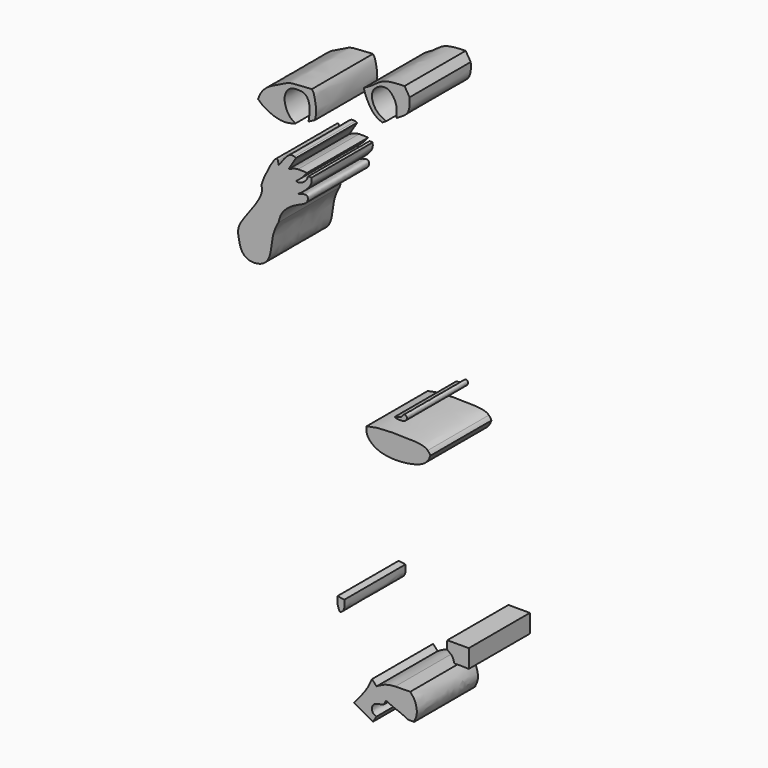
from build123d import *

# Parameters (mm, degrees)
F1_DEPTH = 13.462


with BuildPart() as f1:
    # F0 (on Front) → F1 (new body)
    with BuildSketch(Plane.XZ):
        with BuildLine():
            add(Edge.make_bspline(
                [(0.8535532979, -8.5543373227), (0.8250785768, -8.4638055758), (2.1333939515, -8.379418986), (2.321706787, -7.6001280671), (3.0690326007, -7.5686537332), (3.0415733177, -8.9948874437), (0.8903769668, -8.6714134852), (0.8535532979, -8.5543373227)],
                knots=[0, 0, 0, 0, 0.2144360216, 0.3941398724, 0.5320641402, 0.7226901353, 1, 1, 1, 1], degree=3))
        make_face()
    extrude(amount=F1_DEPTH)


with BuildPart() as f1b:
    # F0 (on Front) → F1, piece 2 (new body)
    with BuildSketch(Plane.XZ):
        with BuildLine():
            add(Edge.make_bspline(
                [(-23.2037361287, 32.9332798719), (-23.1097837538, 33.216522966), (-22.8813293458, 33.9052563101), (-21.6908833871, 35.4990168945), (-18.7522553902, 36.6968267932), (-17.7226188352, 37.4131647118), (-14.6641577636, 37.4694820328), (-13.8817665678, 37.5437084522), (-13.7255053033, 37.562127131)],
                knots=[0, 0, 0, 0, 0.1214565072, 0.2953334011, 0.5119633815, 0.6588996812, 0.8822117564, 0.9514666544, 0.9514666544, 0.9514666544, 0.9514666544], degree=3))
            add(Edge.make_bspline(
                [(-23.2037361287, 32.9332798719), (-22.8963180297, 32.6418985237), (-22.1898936882, 31.9723254643), (-20.0262829153, 30.9717587432), (-18.2369586001, 30.7959087172), (-16.9321090685, 31.1936186458), (-16.5877254898, 31.3190848318)],
                knots=[0, 0, 0, 0, 0.1807542836, 0.4153601437, 0.6603257007, 0.7438099367, 0.7438099367, 0.7438099367, 0.7438099367], degree=3))
            add(Edge.make_bspline(
                [(-16.5877254898, 31.3190848318), (-16.9145229909, 31.4850814579), (-17.6441777314, 31.8574970821), (-18.4904012818, 33.4332383033), (-18.6354322301, 35.12363189), (-17.716865953, 36.6133762608), (-16.015081242, 36.6933041368), (-14.83416972, 36.556425961), (-13.9776669993, 35.1404020734), (-14.1948435445, 32.9672171707), (-14.2863674772, 32.49507174), (-14.3260592475, 32.3392523369)],
                knots=[0, 0, 0, 0, 0.0997219176, 0.2222014618, 0.3431206346, 0.4590962942, 0.5769149755, 0.6750283174, 0.7897713324, 0.9273002069, 1, 1, 1, 1], degree=3))
            add(Edge.make_bspline(
                [(-14.3260592475, 32.3392523369), (-13.9460444572, 32.5319339006), (-13.5618593605, 32.7326068863), (-13.1776742637, 32.9332798719)],
                knots=[0.916349636, 0.916349636, 0.916349636, 0.916349636, 1, 1, 1, 1], degree=3))
            add(Edge.make_bspline(
                [(-13.1776742637, 32.9332798719), (-13.0771119235, 33.3993944543), (-12.8684747615, 34.3664549122), (-13.1686316541, 36.0271362473), (-13.365488453, 37.0466151843), (-13.6169579097, 37.4061635666), (-13.7255053033, 37.562127131)],
                knots=[0, 0, 0, 0, 0.2819086257, 0.5850503726, 0.820766888, 1, 1, 1, 1], degree=3))
        make_face()
    extrude(amount=F1_DEPTH)


with BuildPart() as f1c:
    # F0 (on Front) → F1, piece 3 (new body)
    with BuildSketch(Plane.XZ):
        with BuildLine():
            add(Edge.make_bspline(
                [(-4.5821939697, 40.7110644641), (-4.0814662281, 40.9786317463), (-2.9477729687, 41.609156211), (-1.17494517, 43.2171248058), (1.2489938554, 43.3008143114), (2.5988076228, 43.3474183083)],
                knots=[0.0451862327, 0.0451862327, 0.0451862327, 0.0451862327, 0.2911819416, 0.6052819961, 1, 1, 1, 1], degree=3))
            add(Edge.make_bspline(
                [(-4.5821939697, 40.7110644641), (-4.506634873, 40.4195509733), (-4.3139695955, 39.6689947288), (-3.0771958623, 37.1898008152), (-1.8709145031, 36.6557699769), (-1.3183970004, 36.4109911025)],
                knots=[0, 0, 0, 0, 0.2545050679, 0.6590162156, 1, 1, 1, 1], degree=3))
            add(Edge.make_bspline(
                [(-0.6535798595, 36.8203592678), (-0.8744461768, 36.6846024704), (-1.0964215886, 36.5477967864), (-1.3183970004, 36.4109911025)],
                knots=[0.9226798809, 0.9226798809, 0.9226798809, 0.9226798809, 1, 1, 1, 1], degree=3))
            add(Edge.make_bspline(
                [(1.2117554688, 37.9487096136), (1.2103402534, 38.2393319206), (1.2072179516, 38.8805326613), (1.2373448265, 40.1757687807), (-0.1366575949, 42.3640651344), (-2.3205411079, 41.7855727196), (-3.3386108542, 40.4120909876), (-2.9747412216, 38.7303907149), (-2.0741470514, 37.5039833319), (-1.1314778526, 37.0517604879), (-0.6535798595, 36.8203592678)],
                knots=[0, 0, 0, 0, 0.0952897773, 0.2103061599, 0.3609553232, 0.4994967675, 0.6252188793, 0.7519223945, 0.8744315202, 1, 1, 1, 1], degree=3))
            add(Edge.make_bspline(
                [(3.4911963157, 41.8953299522), (3.5140550279, 41.4541671197), (3.5602764514, 40.5621144998), (3.1814550729, 39.0687770569), (1.9908603194, 38.4065457913), (1.2580434285, 37.9759846176), (1.2117554688, 37.9487096136)],
                knots=[0, 0, 0, 0, 0.2082274369, 0.4210459653, 0.6811504211, 0.6985984836, 0.6985984836, 0.6985984836, 0.6985984836], degree=3))
            add(Edge.make_bspline(
                [(2.5988076228, 43.3474183083), (2.8962705205, 42.8633888563), (3.1937334181, 42.3793594042), (3.4911963157, 41.8953299522)],
                knots=[0, 0, 0, 0, 1.7043820502, 1.7043820502, 1.7043820502, 1.7043820502], degree=3))
        make_face()
    extrude(amount=F1_DEPTH)


with BuildPart() as f1d:
    # F0 (on Front) → F1, piece 4 (new body)
    with BuildSketch(Plane.XZ):
        with BuildLine():
            add(Edge.make_bspline(
                [(-22.6047635078, 19.7961851954), (-22.4382272456, 20.3439747181), (-22.0578617276, 21.5951151163), (-19.7761646606, 25.6953442767), (-19.6479114574, 24.2903518892), (-19.6032002568, 23.800548166)],
                knots=[0, 0, 0, 0, 0.3365689992, 0.7687169147, 1, 1, 1, 1], degree=3))
            add(Edge.make_bspline(
                [(-22.6047635078, 19.7961851954), (-22.5323423168, 19.4140715436), (-22.3304652577, 18.348913969), (-24.6966466125, 14.9268503549), (-26.8977231803, 12.16423138), (-26.6450535139, 10.2028767364), (-26.0351613154, 7.510523671), (-24.0276326539, 7.2421937309), (-23.2834928953, 7.3838214183)],
                knots=[0, 0, 0, 0, 0.0826462106, 0.230379723, 0.366752176, 0.4664361241, 0.5875825994, 0.6667127263, 0.6667127263, 0.6667127263, 0.6667127263], degree=3))
            add(Edge.make_bspline(
                [(-23.2834928953, 7.3838214183), (-22.7370457146, 7.4878234549), (-20.8259872618, 8.3608240397), (-20.8955535587, 12.6126467214), (-19.9950304038, 14.2654869951), (-19.6032002568, 14.9846607819)],
                knots=[0.6667127263, 0.6667127263, 0.6667127263, 0.6667127263, 0.7248206748, 0.8802656491, 1, 1, 1, 1], degree=3))
            add(Edge.make_bspline(
                [(-19.6032002568, 14.9846607819), (-19.4514744108, 15.5934589779), (-19.1102940224, 16.9624413255), (-16.8990295674, 18.5982135071), (-15.4063722859, 19.1265880384), (-15.0079392633, 19.3892328639)],
                knots=[0, 0, 0, 0, 0.2020876828, 0.4544272177, 0.6046429592, 0.6046429592, 0.6046429592, 0.6046429592], degree=3))
            add(Edge.make_bspline(
                [(-15.0079392633, 19.3892328639), (-14.8288253665, 19.5073037454), (-14.3743412223, 19.9130651204), (-14.3583463191, 21.1571618105), (-15.5382744322, 20.7154639889), (-16.2101630121, 20.4639472067)],
                knots=[0.6046429592, 0.6046429592, 0.6046429592, 0.6046429592, 0.6721718167, 0.8133242101, 1, 1, 1, 1], degree=3))
            add(Edge.make_bspline(
                [(-16.2101630121, 20.4639472067), (-15.8322131672, 20.7250175076), (-15.1525673075, 21.1944854845), (-14.3554409834, 22.0104189388), (-14.1093051353, 22.3692841823)],
                knots=[0, 0, 0, 0, 0.338979369, 0.6095674538, 0.6095674538, 0.6095674538, 0.6095674538], degree=3))
            add(Edge.make_bspline(
                [(-14.1093051353, 22.3692841823), (-14.0083345722, 22.5164989258), (-13.7169390796, 23.032336388), (-13.7615559241, 23.4800915025), (-13.7934880331, 23.800548166)],
                knots=[0.6095674538, 0.6095674538, 0.6095674538, 0.6095674538, 0.7205688846, 1, 1, 1, 1], degree=3))
            add(Edge.make_bspline(
                [(-16.5175106376, 22.3911888897), (-16.2750032247, 22.3381764794), (-15.6999934221, 22.2124786493), (-14.4565179095, 23.2398005899), (-14.4897868197, 23.9184386102), (-14.0312414841, 23.8408022358), (-13.7934880331, 23.800548166)],
                knots=[0, 0, 0, 0, 0.2481282485, 0.5883373767, 0.7865549997, 1, 1, 1, 1], degree=3))
            add(Edge.make_bspline(
                [(-16.5175106376, 22.3911888897), (-16.1671889538, 22.6581975884), (-15.4571771261, 23.1993554524), (-14.8758774314, 23.9235014246), (-14.5813925192, 24.2903518892)],
                knots=[0, 0, 0, 0, 0.4934026029, 1, 1, 1, 1], degree=3))
            add(Edge.make_bspline(
                [(-16.1703971763, 24.3339286036), (-15.6765183491, 24.373167759), (-15.1289554342, 24.3317598241), (-14.5813925192, 24.2903518892)],
                knots=[0.5658529429, 0.5658529429, 0.5658529429, 0.5658529429, 1, 1, 1, 1], degree=3))
            add(Edge.make_bspline(
                [(-17.8485922515, 23.800548166), (-17.4299592853, 24.0014638974), (-16.9163084966, 24.2479818075), (-16.289473177, 24.324467899), (-16.1703971763, 24.3339286036)],
                knots=[0, 0, 0, 0, 0.4611784916, 0.5658529429, 0.5658529429, 0.5658529429, 0.5658529429], degree=3))
            add(Edge.make_bspline(
                [(-17.8485922515, 23.800548166), (-17.5158547016, 24.3450280049), (-17.1831171516, 24.8895078437), (-16.8503796017, 25.4339876825)],
                knots=[0, 0, 0, 0, 1.9143022615, 1.9143022615, 1.9143022615, 1.9143022615], degree=3))
            add(Edge.make_bspline(
                [(-16.8503796017, 25.4339876825), (-16.7394232803, 25.6155526426), (-16.628466959, 25.7971176026), (-16.5175106376, 25.9786825627)],
                knots=[1.9143022615, 1.9143022615, 1.9143022615, 1.9143022615, 2.5526550321, 2.5526550321, 2.5526550321, 2.5526550321], degree=3))
            add(Edge.make_bspline(
                [(-16.8503796017, 26.0976623628), (-16.7386909023, 26.0645185803), (-16.62810077, 26.0216005715), (-16.5175106376, 25.9786825627)],
                knots=[0.8781216944, 0.8781216944, 0.8781216944, 0.8781216944, 1, 1, 1, 1], degree=3))
            add(Edge.make_bspline(
                [(-19.6032002568, 23.800548166), (-18.8877456516, 24.8315862122), (-17.8954817943, 26.2615326843), (-17.0748664805, 26.1642791676), (-16.8503796017, 26.0976623628)],
                knots=[0, 0, 0, 0, 0.6331543829, 0.8781216944, 0.8781216944, 0.8781216944, 0.8781216944], degree=3))
        make_face()
    extrude(amount=F1_DEPTH)


with BuildPart() as f1e:
    # F0 (on Front) → F1, piece 5 (new body)
    with BuildSketch(Plane.XZ):
        with BuildLine():
            add(Edge.make_bspline(
                [(-3.933256492, -13.0140893161), (-2.9249836782, -13.0126489401), (-0.7044018535, -13.0094767106), (3.9746589503, -13.0349926549), (6.0482902328, -12.9786199481), (6.9665403027, -12.9535870692)],
                knots=[0, 0, 0, 0, 0.3161930756, 0.6963716439, 0.9989664081, 0.9989664081, 0.9989664081, 0.9989664081], degree=3))
            add(Edge.make_bspline(
                [(-3.933256492, -13.0140893161), (-3.6299871589, -13.6816020951), (-1.7581083299, -15.2891896966), (3.4358052937, -15.2267788752), (6.2899284813, -14.1428552989), (6.8293391478, -13.2458749119), (6.9665403188, -12.9535870845)],
                knots=[0.1469866764, 0.1469866764, 0.1469866764, 0.1469866764, 0.352065497, 0.6332827206, 0.8504403623, 0.9498150812, 0.9498150812, 0.9498150812, 0.9498150812], degree=3))
        make_face()
        with BuildLine():
            add(Edge.make_bspline(
                [(-4.0858881548, -12.4757638488), (-3.7872294569, -12.2359488795), (-2.909405033, -11.5310792676), (2.2742458742, -11.5391883501), (5.2318871167, -11.7396277002), (6.68474054, -11.8380875792)],
                knots=[0, 0, 0, 0, 0.2078346399, 0.6108722927, 1, 1, 1, 1], degree=3))
            add(Edge.make_bspline(
                [(-4.0858881548, -12.4757638488), (-4.0615198012, -12.6546367781), (-4.0150835894, -12.8339832943), (-3.933256492, -13.0140893161)],
                knots=[0.0916530083, 0.0916530083, 0.0916530083, 0.0916530083, 0.1469866764, 0.1469866764, 0.1469866764, 0.1469866764], degree=3))
            add(Edge.make_bspline(
                [(-3.933256492, -13.0140893161), (-2.9249836782, -13.0126489401), (-0.7044018535, -13.0094767106), (3.9746589503, -13.0349926549), (6.0482902328, -12.9786199481), (6.9665403027, -12.9535870692)],
                knots=[0, 0, 0, 0, 0.3161930756, 0.6963716439, 0.9989664081, 0.9989664081, 0.9989664081, 0.9989664081], degree=3))
            add(Edge.make_bspline(
                [(6.9665403188, -12.9535870845), (7.0358278571, -12.8059797145), (7.0969171993, -12.655647945), (7.1580065414, -12.5053161755)],
                knots=[0.9498150812, 0.9498150812, 0.9498150812, 0.9498150812, 1, 1, 1, 1], degree=3))
            add(Edge.make_bspline(
                [(6.68474054, -11.8380875792), (6.8893501861, -12.0354273712), (7.0236783638, -12.2703717733), (7.1580065414, -12.5053161755)],
                knots=[0.8869285145, 0.8869285145, 0.8869285145, 0.8869285145, 1, 1, 1, 1], degree=3))
        make_face()
        with BuildLine():
            add(Edge.make_bspline(
                [(-4.0858881548, -11.5895234048), (-3.3781628092, -11.4286120689), (-1.6823748374, -11.0430507637), (2.7488868354, -11.1170576545), (5.8892871255, -11.2162336731), (6.5889554667, -11.7457057839), (6.68474054, -11.8380875792)],
                knots=[0, 0, 0, 0, 0.2311406086, 0.553838387, 0.8339957191, 0.8869285145, 0.8869285145, 0.8869285145, 0.8869285145], degree=3))
            add(Edge.make_bspline(
                [(-4.0858881548, -11.5895234048), (-4.1060696555, -11.8845037813), (-4.1262511562, -12.1794841579), (-4.0858881548, -12.4757638488)],
                knots=[0, 0, 0, 0, 0.0916530083, 0.0916530083, 0.0916530083, 0.0916530083], degree=3))
            add(Edge.make_bspline(
                [(-4.0858881548, -12.4757638488), (-3.7872294569, -12.2359488795), (-2.909405033, -11.5310792676), (2.2742458742, -11.5391883501), (5.2318871167, -11.7396277002), (6.68474054, -11.8380875792)],
                knots=[0, 0, 0, 0, 0.2078346399, 0.6108722927, 1, 1, 1, 1], degree=3))
        make_face()
    extrude(amount=F1_DEPTH)


with BuildPart() as f1f:
    # F0 (on Front) → F1, piece 6 (new body)
    with BuildSketch(Plane.XZ):
        with BuildLine():
            add(Edge.make_bspline(
                [(-1.9717253992, -51.1510309403), (-1.5258069641, -50.8890577574), (-0.7196495546, -50.4789374797), (0.4756187626, -50.3424757403), (0.9583038627, -50.3116294365)],
                knots=[0.0735533933, 0.0735533933, 0.0735533933, 0.0735533933, 0.3427675681, 0.5305586745, 0.5305586745, 0.5305586745, 0.5305586745], degree=3))
            add(Edge.make_bspline(
                [(-2.3328945972, -51.3687983947), (-2.2132258361, -51.2957021898), (-2.093557075, -51.2226059849), (-1.9717253992, -51.1510309403)],
                knots=[0, 0, 0, 0, 0.0735533933, 0.0735533933, 0.0735533933, 0.0735533933], degree=3))
            add(Edge.make_bspline(
                [(-2.3328945972, -51.3687983947), (-2.1329149616, -51.5825234126), (-1.5435385302, -52.2018523057), (-1.0114519405, -52.7041501969), (-0.6566458615, -53.0390925705)],
                knots=[0.3044891114, 0.3044891114, 0.3044891114, 0.3044891114, 0.5362192994, 1, 1, 1, 1], degree=3))
            add(Edge.make_bspline(
                [(-0.6566458615, -53.0390925705), (-0.184415988, -53.2676873157), (0.7577282953, -53.7237559476), (2.489029281, -54.266186845), (3.1050620131, -54.7234714031)],
                knots=[0, 0, 0, 0, 0.1246927463, 0.2487740923, 0.2487740923, 0.2487740923, 0.2487740923], degree=3))
            add(Edge.make_bspline(
                [(4.297408741, -54.7234714031), (3.8999598317, -54.7234714031), (3.5025109224, -54.7234714031), (3.1050620131, -54.7234714031)],
                knots=[0, 0, 0, 0, 1.1923467279, 1.1923467279, 1.1923467279, 1.1923467279], degree=3))
            add(Edge.make_bspline(
                [(3.601440927, -50.2733550966), (3.8860502525, -50.5917891055), (4.5367882971, -51.3198647721), (5.0185053095, -53.5074773929), (4.2324389176, -54.6492519784), (4.297408741, -54.7234714031)],
                knots=[0, 0, 0, 0, 0.2555674691, 0.5843360012, 0.8195648148, 0.8195648148, 0.8195648148, 0.8195648148], degree=3))
            add(Edge.make_bspline(
                [(0.9583038627, -50.3116294365), (1.5250208805, -50.2754130186), (2.7067786536, -50.2723478277), (3.2914004827, -50.2730060329), (3.601440927, -50.2733550966)],
                knots=[0.5305586745, 0.5305586745, 0.5305586745, 0.5305586745, 0.7510428282, 1, 1, 1, 1], degree=3))
        make_face()
        with BuildLine():
            add(Edge.make_bspline(
                [(-3.1336732209, -50.5008324981), (-2.8646686502, -50.7944001182), (-2.5956640795, -51.0879677384), (-2.3328945972, -51.3687983947)],
                knots=[0, 0, 0, 0, 0.3044891114, 0.3044891114, 0.3044891114, 0.3044891114], degree=3))
            add(Edge.make_bspline(
                [(-3.1336732209, -50.5008324981), (-3.4124869157, -51.1177737733), (-4.0495846572, -52.5275032824), (-5.4927028167, -54.2501282053), (-6.3042677939, -55.2188791335)],
                knots=[0, 0, 0, 0, 0.4376309577, 1, 1, 1, 1], degree=3))
            add(Edge.make_bspline(
                [(-6.3042677939, -55.2188791335), (-5.1967545102, -55.8373729388), (-4.0892412265, -56.4558667441), (-2.9817279428, -57.0743605494)],
                knots=[0, 0, 0, 0, 3.8055331226, 3.8055331226, 3.8055331226, 3.8055331226], degree=3))
            add(Edge.make_bspline(
                [(-2.9817279428, -57.0743605494), (-2.765450161, -56.73244223), (-2.5491723791, -56.3905239105), (-2.3328945972, -56.0486055911)],
                knots=[0, 0, 0, 0, 1.2137371812, 1.2137371812, 1.2137371812, 1.2137371812], degree=3))
            add(Edge.make_bspline(
                [(-2.3328945972, -56.0486055911), (-2.5833921346, -55.9532756119), (-3.0897451813, -55.7605766102), (-3.2196471974, -54.85685361), (-2.8123493978, -54.1242475208), (-1.6328679467, -53.9401390741), (-1.2179477237, -53.8043743715), (-1.0412987322, -53.746573627)],
                knots=[0, 0, 0, 0, 0.1938894987, 0.3919261618, 0.5859647774, 0.8237277904, 1, 1, 1, 1], degree=3))
            add(Edge.make_bspline(
                [(-0.6566458615, -53.0390925705), (-0.784863485, -53.2749195894), (-0.9130811086, -53.5107466082), (-1.0412987322, -53.746573627)],
                knots=[0, 0, 0, 0, 0.8052870769, 0.8052870769, 0.8052870769, 0.8052870769], degree=3))
            add(Edge.make_bspline(
                [(-2.3328945972, -51.3687983947), (-2.1329149616, -51.5825234126), (-1.5435385302, -52.2018523057), (-1.0114519405, -52.7041501969), (-0.6566458615, -53.0390925705)],
                knots=[0.3044891114, 0.3044891114, 0.3044891114, 0.3044891114, 0.5362192994, 1, 1, 1, 1], degree=3))
        make_face()
    extrude(amount=F1_DEPTH)


with BuildPart() as f1g:
    # F0 (on Front) → F1, piece 7 (new body)
    with BuildSketch(Plane.XZ):
        with BuildLine():
            add(Edge.make_bspline(
                [(13.9151895419, -43.3776080608), (13.9151895419, -42.3031548659), (13.9151895419, -41.228701671), (13.9151895419, -40.154248476)],
                knots=[0, 0, 0, 0, 3.2233595848, 3.2233595848, 3.2233595848, 3.2233595848], degree=3))
            add(Edge.make_bspline(
                [(13.9151895419, -40.154248476), (12.6547745119, -40.154248476), (11.3943594818, -40.154248476), (10.1339444518, -40.154248476)],
                knots=[0, 0, 0, 0, 3.7812450901, 3.7812450901, 3.7812450901, 3.7812450901], degree=3))
            add(Edge.make_bspline(
                [(10.1339444518, -40.154248476), (10.0996639819, -40.7595654129), (9.8411530369, -41.6907227375), (11.0543259011, -42.0915419673), (11.2624864317, -42.9296879458), (11.3736968488, -43.3776080608)],
                knots=[0.5446663302, 0.5446663302, 0.5446663302, 0.5446663302, 0.7089961818, 0.8444214804, 1, 1, 1, 1], degree=3))
            add(Edge.make_bspline(
                [(11.3736968488, -43.3776080608), (12.1357512356, -43.3323642173), (12.8978054114, -43.2871210757), (13.9151895419, -43.3776080608)],
                knots=[0, 0, 0, 0, 0.1037122504, 0.1037122504, 0.1037122504, 0.1037122504], degree=3))
        make_face()
    extrude(amount=F1_DEPTH)


with BuildPart() as f1h:
    # F0 (on Front) → F1, piece 8 (new body)
    with BuildSketch(Plane.XZ):
        with BuildLine():
            add(Edge.make_bspline(
                [(-9.2121018097, -39.5939735799), (-8.8073102136, -39.6503032564), (-8.4025186176, -39.706632933), (-7.9977270216, -39.7629626095)],
                knots=[0, 0, 0, 0, 1.2260764324, 1.2260764324, 1.2260764324, 1.2260764324], degree=3))
            add(Edge.make_bspline(
                [(-9.2121018097, -39.5939735799), (-9.235308609, -40.079850587), (-9.2796050662, -40.9400595209), (-8.9509593866, -41.6099650532), (-8.7804137356, -41.9576022874)],
                knots=[0.7495453792, 0.7495453792, 0.7495453792, 0.7495453792, 0.8700304036, 1, 1, 1, 1], degree=3))
            add(Edge.make_bspline(
                [(-7.9977270216, -39.7629626095), (-8.0353307006, -40.0740104755), (-7.8475440667, -40.9081566011), (-8.3276784339, -41.7721797654), (-8.6865222436, -41.9133952547), (-8.7804137356, -41.9576022874)],
                knots=[0.5630225378, 0.5630225378, 0.5630225378, 0.5630225378, 0.6829954373, 0.7971342168, 0.8427017499, 0.8427017499, 0.8427017499, 0.8427017499], degree=3))
        make_face()
    extrude(amount=F1_DEPTH)


solid = Compound([f1.part, f1b.part, f1c.part, f1d.part, f1e.part, f1f.part, f1g.part, f1h.part])
